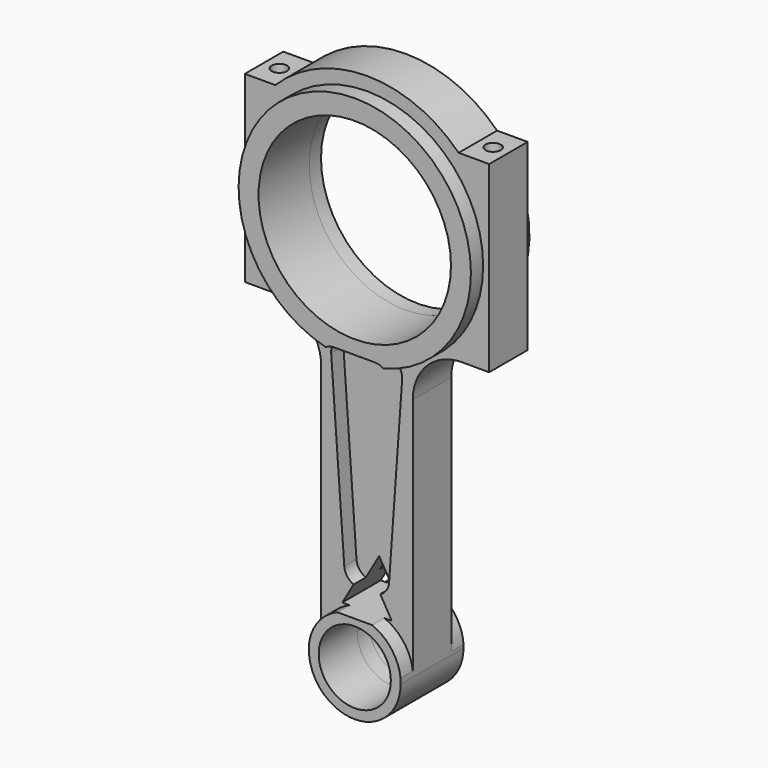
from build123d import *

# Parameters (mm, degrees)
F0_R      = 15
F0_R_2    = 40
F1_DEPTH  = 10
F3_DEPTH  = 6.35
F5_DEPTH  = 6.35
F6_R      = 40
F6_R_2    = 15
F7_DEPTH  = 6.35
F8_R      = 40.1872824047
F8_R_2    = 15
F9_DEPTH  = 6.35
F10_R     = 3.175
F11_DEPTH = 24.638


with BuildPart() as f1:
    # F0 (on Front) → F1 (new body, symmetric)
    with BuildSketch(Plane.XZ):
        with BuildLine():
            Line((-38.1, 198.1), (-50.8, 198.1))
            Line((-50.8, 198.1), (-50.8, 121.9))
            Line((-50.8, 121.9), (-39.35, 121.9))
            ThreePointArc((-39.35, 121.9), (-24.9957323419, 115.9542676581), (-19.05, 101.6))
            Line((-19.05, 101.6), (-19.05, 0))
            ThreePointArc((-19.05, 0), (0, -19.05), (19.05, 0))
            Line((19.05, 0), (19.05, 101.6))
            ThreePointArc((19.05, 101.6), (24.9957323419, 115.9542676581), (39.35, 121.9))
            Line((39.35, 121.9), (50.8, 121.9))
            Line((50.8, 121.9), (50.8, 198.1))
            Line((50.8, 198.1), (38.1, 198.1))
            ThreePointArc((38.1, 198.1), (0, 213.8815367264), (-38.1, 198.1))
        make_face()
        Circle(F0_R, mode=Mode.SUBTRACT)
        Polygon((10.2652877862, 17.78), (-10.2652877862, 17.78), (0, 35.56), align=None, mode=Mode.SUBTRACT)
        with Locations((0, 160)):
            Circle(F0_R_2, mode=Mode.SUBTRACT)
    extrude(amount=F1_DEPTH, both=True)

    # F2 (on face) → F3 (cut)
    with BuildSketch(Plane(origin=(0, 10, 0), x_dir=(-1, 0, 0), z_dir=(0, 1, 0))):
        with BuildLine():
            Line((8.4202502013, 114.3), (-8.4202502013, 114.3))
            ThreePointArc((-8.4202502013, 114.3), (-13.0675805733, 112.2772185539), (-14.7541129452, 107.4975812326))
            Line((-14.7541129452, 107.4975812326), (-9.3112558023, 31.2975812326))
            ThreePointArc((-9.3112558023, 31.2975812326), (-8.1734716854, 28.0998949464), (-5.5512178996, 25.9450085541))
            Line((-5.5512178996, 25.9450085541), (0, 35.56))
            Line((0, 35.56), (5.5512178996, 25.9450085541))
            ThreePointArc((5.5512178996, 25.9450085541), (8.1734716854, 28.0998949464), (9.3112558023, 31.2975812326))
            Line((9.3112558023, 31.2975812326), (14.7541129452, 107.4975812326))
            ThreePointArc((14.7541129452, 107.4975812326), (13.0675805733, 112.2772185539), (8.4202502013, 114.3))
        make_face()
    extrude(amount=-F3_DEPTH, mode=Mode.SUBTRACT)

    # F4 (on face) → F5 (cut)
    with BuildSketch(Plane.XZ.offset(10)):
        with BuildLine():
            Line((8.2876571429, 114.3), (-8.5528432597, 114.3))
            ThreePointArc((-8.5528432597, 114.3), (-13.2001736317, 112.2772185539), (-14.8867060036, 107.4975812326))
            Line((-14.8867060036, 107.4975812326), (-9.4438488607, 31.2975812326))
            ThreePointArc((-9.4438488607, 31.2975812326), (-8.2726256774, 28.0527506485), (-5.5777130107, 25.8991176753))
            Line((-5.5777130107, 25.8991176753), (0, 35.56))
            Line((0, 35.56), (5.5236666839, 25.9927286594))
            ThreePointArc((5.5236666839, 25.9927286594), (8.0738236317, 28.1472494037), (9.1786627439, 31.2975812326))
            Line((9.1786627439, 31.2975812326), (14.6215198868, 107.4975812326))
            ThreePointArc((14.6215198868, 107.4975812326), (12.9349875149, 112.2772185539), (8.2876571429, 114.3))
        make_face()
    extrude(amount=-F5_DEPTH, mode=Mode.SUBTRACT)

    # F6 (on face) → F7 (join, symmetric)
    with BuildSketch(Plane.XZ.offset(10)):
        with BuildLine():
            ThreePointArc((8.2876571429, 114.3), (10.166594253, 114.0156487976), (11.8772548194, 113.1880615232))
            ThreePointArc((11.8772548194, 113.1880615232), (38.1185074142, 130.3452169369), (48.295204379, 160))
            ThreePointArc((48.295204379, 160), (-29.5763862031, 198.1793680562), (-12.0695529054, 113.2372727627))
            ThreePointArc((-12.0695529054, 113.2372727627), (-10.3897316554, 114.0285147052), (-8.5528432597, 114.3))
            Line((-8.5528432597, 114.3), (8.2876571429, 114.3))
        make_face()
        with Locations((0, 160)):
            Circle(F6_R, mode=Mode.SUBTRACT)
        with BuildLine():
            Line((19.05, 0), (19.05, 2.2343365964))
            ThreePointArc((19.05, 2.2343365964), (15.2517343468, 11.630965542), (7.1948842955, 17.78))
            Line((7.1948842955, 17.78), (-7.1948842955, 17.78))
            ThreePointArc((-7.1948842955, 17.78), (-15.2517343468, 11.630965542), (-19.05, 2.2343365964))
            Line((-19.05, 2.2343365964), (-19.05, 0))
            ThreePointArc((-19.05, 0), (0, -19.05), (19.05, 0))
        make_face()
        Circle(F6_R_2, mode=Mode.SUBTRACT)
    extrude(amount=F7_DEPTH, both=True)

    # F8 (on face) → F9 (join, symmetric)
    with BuildSketch(Plane(origin=(0, 10, 0), x_dir=(-1, 0, 0), z_dir=(0, 1, 0))):
        with BuildLine():
            Line((-8.4202502013, 114.3), (8.4202502013, 114.3))
            ThreePointArc((8.4202502013, 114.3), (35.7118556811, 130.2669547933), (46.4692437366, 160))
            ThreePointArc((46.4692437366, 160), (-29.7330452067, 195.7118556811), (-8.4202502013, 114.3))
        make_face()
        with Locations((0, 160)):
            Circle(F8_R, mode=Mode.SUBTRACT)
        with BuildLine():
            Line((19.05, 0), (19.05, 1.2599718654))
            ThreePointArc((19.05, 1.2599718654), (15.4039969033, 11.2786040139), (6.9542525911, 17.78))
            Line((6.9542525911, 17.78), (-6.9542525911, 17.78))
            ThreePointArc((-6.9542525911, 17.78), (-15.4039969033, 11.2786040139), (-19.05, 1.2599718654))
            Line((-19.05, 1.2599718654), (-19.05, 0))
            ThreePointArc((-19.05, 0), (0, -19.05), (19.05, 0))
        make_face()
        Circle(F8_R_2, mode=Mode.SUBTRACT)
    extrude(amount=F9_DEPTH, both=True)

    # F10 (on face) → F11 (cut)
    with BuildSketch(Plane.XY.offset(198.1)):
        with Locations((-44.45, 0)):
            Circle(F10_R)
        with Locations((44.45, 0)):
            Circle(F10_R)
    extrude(amount=-F11_DEPTH, mode=Mode.SUBTRACT)


solid = f1.part
